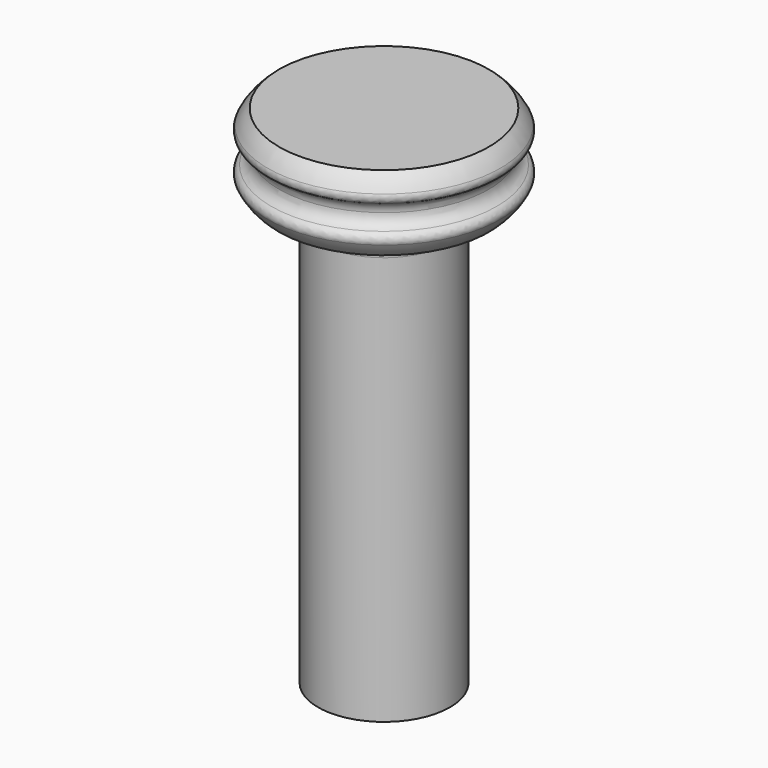
from build123d import *

# Parameters (mm, degrees)
F0_R     = 8.8
F1_DEPTH = 7.5
F2_R     = 8.8
F3_DEPTH = 55
F4_R     = 14
F4_R_2   = 8.8
F5_DEPTH = 5
F8_R     = 1
F9_R     = 3


with BuildPart() as f1:
    # F0 (on Top) → F1 (new body)
    with BuildSketch(Plane.XY):
        Circle(F0_R)
        with BuildLine():
            ThreePointArc((5.7041651449, -1.05), (0, -5.8), (-5.7041651449, -1.05))
            Line((-5.7041651449, -1.05), (-2.8102490993, -1.05))
            ThreePointArc((-2.8102490993, -1.05), (0, -3), (2.8102490993, -1.05))
            Line((2.8102490993, -1.05), (5.7041651449, -1.05))
        make_face(mode=Mode.SUBTRACT)
        with BuildLine():
            ThreePointArc((-5.7041651449, 1.05), (0, 5.8), (5.7041651449, 1.05))
            Line((5.7041651449, 1.05), (2.8102490993, 1.05))
            ThreePointArc((2.8102490993, 1.05), (0, 3), (-2.8102490993, 1.05))
            Line((-2.8102490993, 1.05), (-5.7041651449, 1.05))
        make_face(mode=Mode.SUBTRACT)
    extrude(amount=F1_DEPTH)

    # F2 (on face) → F3 (join)
    with BuildSketch(Plane.XY.offset(7.5)):
        Circle(F2_R)
        with BuildLine():
            Line((2.8102490993, -1.05), (5.7041651449, -1.05))
            ThreePointArc((5.7041651449, -1.05), (0, -5.8), (-5.7041651449, -1.05))
            Line((-5.7041651449, -1.05), (-2.8102490993, -1.05))
            ThreePointArc((-2.8102490993, -1.05), (0, -3), (2.8102490993, -1.05))
        make_face(mode=Mode.SUBTRACT)
        with BuildLine():
            ThreePointArc((-5.7041651449, 1.05), (0, 5.8), (5.7041651449, 1.05))
            Line((5.7041651449, 1.05), (2.8102490993, 1.05))
            ThreePointArc((2.8102490993, 1.05), (0, 3), (-2.8102490993, 1.05))
            Line((-2.8102490993, 1.05), (-5.7041651449, 1.05))
        make_face(mode=Mode.SUBTRACT)
        with BuildLine():
            Line((2.8102490993, 1.05), (5.7041651449, 1.05))
            ThreePointArc((5.7041651449, 1.05), (0, 5.8), (-5.7041651449, 1.05))
            Line((-5.7041651449, 1.05), (-2.8102490993, 1.05))
            ThreePointArc((-2.8102490993, 1.05), (0, 3), (2.8102490993, 1.05))
        make_face()
        with BuildLine():
            ThreePointArc((-5.7041651449, -1.05), (0, -5.8), (5.7041651449, -1.05))
            Line((5.7041651449, -1.05), (2.8102490993, -1.05))
            ThreePointArc((2.8102490993, -1.05), (0, -3), (-2.8102490993, -1.05))
            Line((-2.8102490993, -1.05), (-5.7041651449, -1.05))
        make_face()
    extrude(amount=F3_DEPTH)

    # F4 (on face) → F5 (join, symmetric)
    with BuildSketch(Plane.XY.offset(62.5)):
        Circle(F4_R)
        Circle(F4_R_2, mode=Mode.SUBTRACT)
        Circle(F4_R_2)
    extrude(amount=F5_DEPTH, both=True)

    # F6 (on Front) → F7 (revolve)
    with BuildSketch(Plane.XZ):
        with BuildLine():
            ThreePointArc((-16.0032685947, 64.2884859179), (-14.6012263497, 63.8427366589), (-14, 62.5))
            Line((-14, 62.5), (-14, 67.5))
            ThreePointArc((-14, 67.5), (-15.2336171199, 66.0389485063), (-16.0032685947, 64.2884859179))
        make_face()
        with BuildLine():
            ThreePointArc((-16.0032685947, 60.7115140821), (-15.2336171199, 58.9610514937), (-14, 57.5))
            Line((-14, 57.5), (-14, 62.5))
            ThreePointArc((-14, 62.5), (-14.6012263497, 61.1572633411), (-16.0032685947, 60.7115140821))
        make_face()
    revolve(axis=Axis((0, 0, 35.6552451849), (0, 0, 1)))

    # F8
    f8_edges = [f1.edges().sort_by_distance(p)[0] for p in [
        (16.003269, 0, 64.288486),
        (16.003269, 0, 60.711514),
    ]]
    fillet(f8_edges, radius=F8_R)

    # F9
    f9_edges = [f1.edges().sort_by_distance(p)[0] for p in [
        (-8.8, 0, 57.5),
    ]]
    fillet(f9_edges, radius=F9_R)


solid = f1.part
